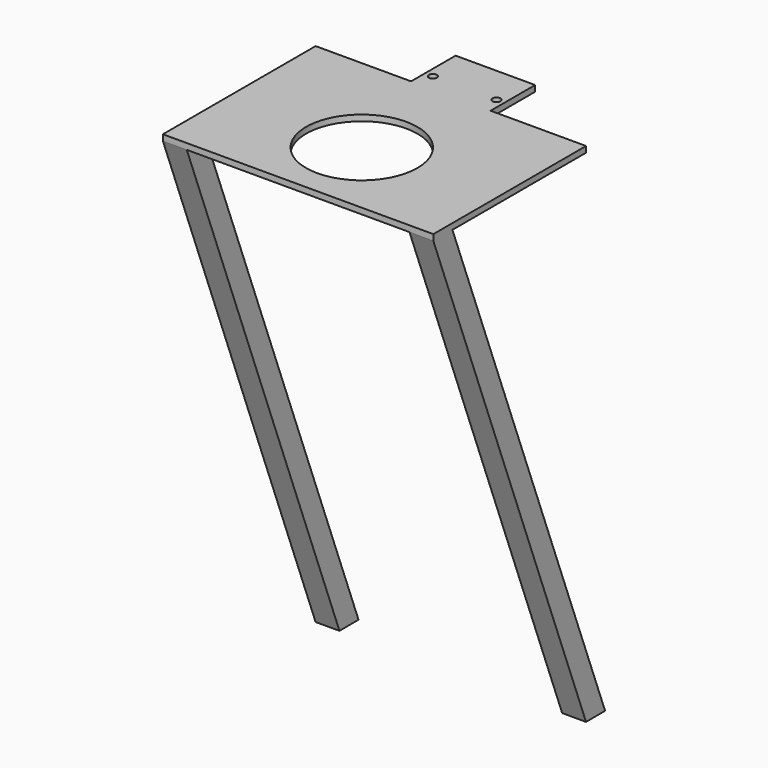
from build123d import *

# Parameters (mm, degrees)
F0_W     = 127
F0_H     = 88.9
F0_R     = 6.35
F0_R_2   = 88.9
F1_DEPTH = 9.525
F3_DEPTH = 38.1
F5_DEPTH = 38.1


with BuildPart() as f1:
    # F0 (on Top) → F1 (new body)
    with BuildSketch(Plane.XY):
        with Locations((63.5, 44.45)):
            Rectangle(F0_W, F0_H)
        with Locations((12.7, 27.647039)):
            Circle(F0_R, mode=Mode.SUBTRACT)
        with Locations((114.3, 27.647039)):
            Circle(F0_R, mode=Mode.SUBTRACT)
        Polygon((127, 0), (0, 0), (-152.4, 0), (-152.4, -304.8), (279.4, -304.8), (279.4, 0), align=None)
        with Locations((63.5, -177.8)):
            Circle(F0_R_2, mode=Mode.SUBTRACT)
    extrude(amount=F1_DEPTH)

    # F2 (on face) → F3 (join)
    with BuildSketch(Plane(origin=(-152.4, 0, 0), x_dir=(0, -1, 0), z_dir=(-1, 0, 0))):
        Polygon((0.009177, -800.095136), (304.8, 0), (266.7, 0), (-38.018486, -799.905247), align=None)
    extrude(amount=-F3_DEPTH)

    # F4 (on face) → F5 (join)
    with BuildSketch(Plane.YZ.offset(279.4)):
        Polygon((-266.7, 0), (-304.8, 0), (-0.016334, -800.048764), (38.018486, -799.905247), align=None)
    extrude(amount=-F5_DEPTH)


solid = f1.part
